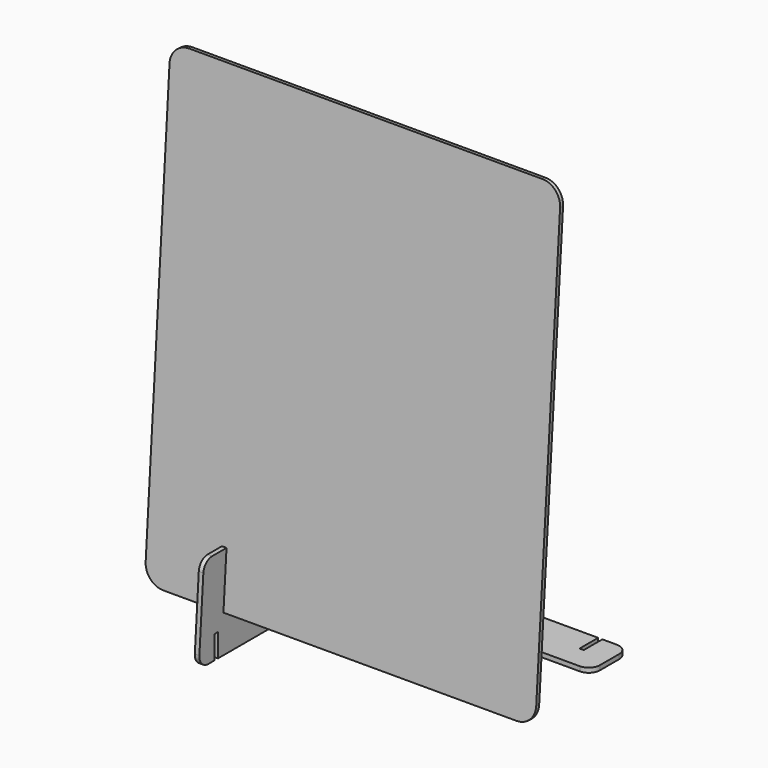
from build123d import *

# Parameters (mm, degrees)
PAD_DEPTH               = 2
PAD010_DEPTH            = 2.45
PAD009_DEPTH            = 2.45
BODY015_PLACEMENT_ANGLE = 90


with BuildPart() as body:
    # Sketch (on DatumPlane) → Pad (new body)
    with BuildSketch(Plane(origin=(0, -22, 0), x_dir=(1, 0, 0), z_dir=(0, -0.997564, 0.069756))):
        with BuildLine():
            Line((-95, 0), (95, 0))
            ThreePointArc((95, 0), (102.071068, 2.928932), (105, 10))
            Line((105, 10), (105, 240))
            ThreePointArc((105, 240), (102.071068, 247.071068), (95, 250))
            Line((95, 250), (-95, 250))
            ThreePointArc((-95, 250), (-102.071068, 247.071068), (-105, 240))
            Line((-105, 240), (-105, 10))
            ThreePointArc((-105, 10), (-102.071068, 2.928932), (-95, 0))
        make_face()
    extrude(amount=PAD_DEPTH)


with BuildPart() as body011:
    # Sketch010 → Pad010 (new body)
    with BuildSketch(Plane.YZ.offset(65)):
        with BuildLine():
            Line((-19.902196, 30), (-22, 0))
            Line((-22, 0), (-24.105128, 0))
            Line((-24.105128, 0), (-22.007324, 30))
            Line((-22.007324, 30), (-31.607397, 30))
            ThreePointArc((-31.607397, 30), (-35.699387, 28.388122), (-37.592781, 24.418539))
            Line((-37.592781, 24.418539), (-40.25, -13.581461))
            ThreePointArc((-40.25, -13.581461), (-38.652738, -18.09199), (-34.264616, -20))
            Line((-34.264616, -20), (-30, -20))
            Line((-30, -20), (-30, -7.5))
            Line((-30, -7.5), (-27.75, -7.5))
            Line((-27.75, -7.5), (-27.75, -20))
            Line((-27.75, -20), (63.75, -20))
            ThreePointArc((63.75, -20), (67.992641, -18.242641), (69.75, -14))
            Line((69.75, -11.125), (69.75, -14))
            Line((57.25, -11.125), (69.75, -11.125))
            Line((57.25, -8.875), (57.25, -11.125))
            Line((69.75, -8.875), (57.25, -8.875))
            Line((69.75, -6), (69.75, -8.875))
            ThreePointArc((69.75, -6), (67.992641, -1.757359), (63.75, 0))
            Line((63.75, 0), (9.75, 0))
            ThreePointArc((3.75, 6), (5.507359, 1.757359), (9.75, 0))
            Line((3.75, 24), (3.75, 6))
            ThreePointArc((3.75, 24), (1.992641, 28.242641), (-2.25, 30))
            Line((-2.25, 30), (-19.902196, 30))
        make_face()
    extrude(amount=PAD010_DEPTH)


with BuildPart() as body011_1:
    # Body011 placement: moved
    add(body011.part.moved(Location((-130, 0, 0))))


with BuildPart() as body015:
    # Sketch012 (on Face13 of Binder001) → Pad009 (new body)
    with BuildSketch(Plane.XZ.offset(27.75)):
        with BuildLine():
            Line((-66.125, -20), (-66.125, -7.5))
            Line((-66.125, -7.5), (-63.875, -7.5))
            Line((-63.875, -7.5), (-63.875, -20))
            Line((-63.875, -20), (63.875, -20))
            Line((63.875, -20), (63.875, -7.5))
            Line((63.875, -7.5), (66.125, -7.5))
            Line((66.125, -7.5), (66.125, -20))
            Line((66.125, -20), (74, -20))
            ThreePointArc((74, -20), (78.242641, -18.242641), (80, -14))
            Line((80, -14), (80, -1))
            ThreePointArc((80, -1), (78.242641, 3.242641), (74, 5))
            Line((74, 5), (-74, 5))
            ThreePointArc((-74, 5), (-78.242641, 3.242641), (-80, -1))
            Line((-80, -1), (-80, -14))
            ThreePointArc((-80, -14), (-78.242641, -18.242641), (-74, -20))
            Line((-74, -20), (-66.125, -20))
        make_face()
    extrude(amount=PAD009_DEPTH)


with BuildPart() as body015_1:
    # Body015 placement: moved
    add(body015.part.moved(Location((0, 49.75, 19))).rotate(Axis((0, 49.75, 19), (1, 0, 0)), BODY015_PLACEMENT_ANGLE))


solid = Compound([body.part, body011_1.part, body015_1.part])
